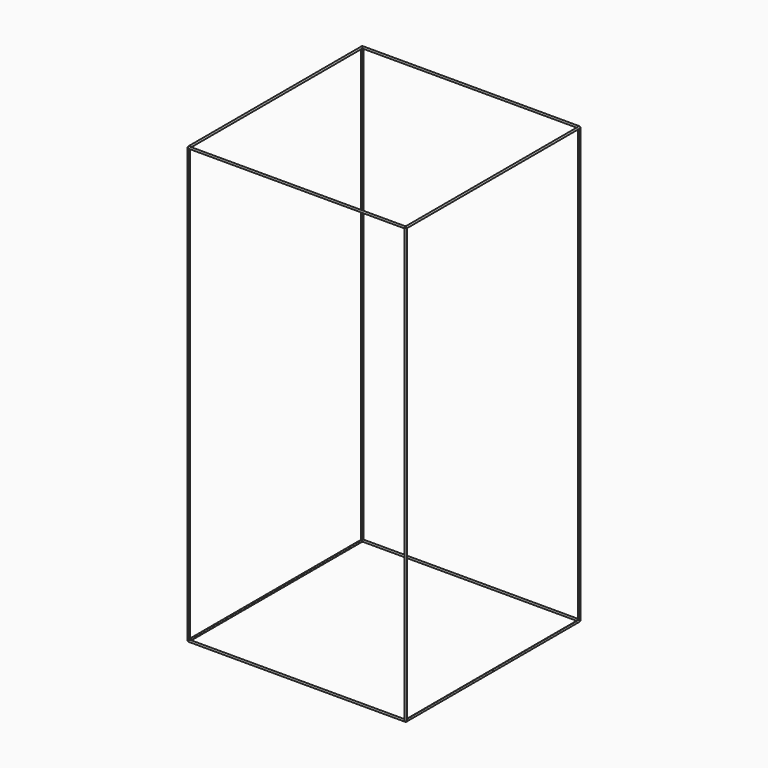
from build123d import *

# Parameters (mm, degrees)
F0_R      = 6.35
F1_DEPTH  = 750
F7_DEPTH  = 750
F8_DEPTH  = 3000
F10_R     = 6.35
F11_DEPTH = 750
F13_R     = 6.35
F14_DEPTH = 750


with BuildPart() as f1:
    # F0 (on Right) → F1 (new body)
    with BuildSketch(Plane.YZ):
        Circle(F0_R)
    extrude(amount=-F1_DEPTH)

    # F4 (on plane+point) → F7 (join)
    with BuildSketch(Plane.XZ):
        with BuildLine():
            ThreePointArc((-750, 6.35), (-754.4901280605, -4.4901280605), (-743.65, 0))
            ThreePointArc((-743.65, 0), (-745.5098719395, 4.4901280605), (-750, 6.35))
        make_face()
    extrude(amount=-F7_DEPTH)

    # F6 (on plane+point) → F8 (join)
    with BuildSketch(Plane.XY):
        with BuildLine():
            ThreePointArc((-750, 6.35), (-754.4901280605, -4.4901280605), (-743.65, 0))
            ThreePointArc((-743.65, 0), (-745.5098719395, 4.4901280605), (-750, 6.35))
        make_face()
    extrude(amount=F8_DEPTH)

    # F10 (on plane+point) → F11 (join)
    with BuildSketch(Plane.XZ):
        with Locations((-750, 3000)):
            Circle(F10_R)
    extrude(amount=-F11_DEPTH)

    # F13 (on plane+point) → F14 (join)
    with BuildSketch(Plane.YZ.offset(-750)):
        with Locations((0, 3000)):
            Circle(F13_R)
    extrude(amount=F14_DEPTH)

    # F17: F1 across plane


with BuildPart() as f1_1:
    add(f1.part)
    add(f1.part.mirror(Plane.YZ))

    # F18: F1 across plane


with BuildPart() as f1_2:
    add(f1_1.part)
    add(f1_1.part.mirror(Plane.XZ.offset(-750)))


solid = f1_2.part
